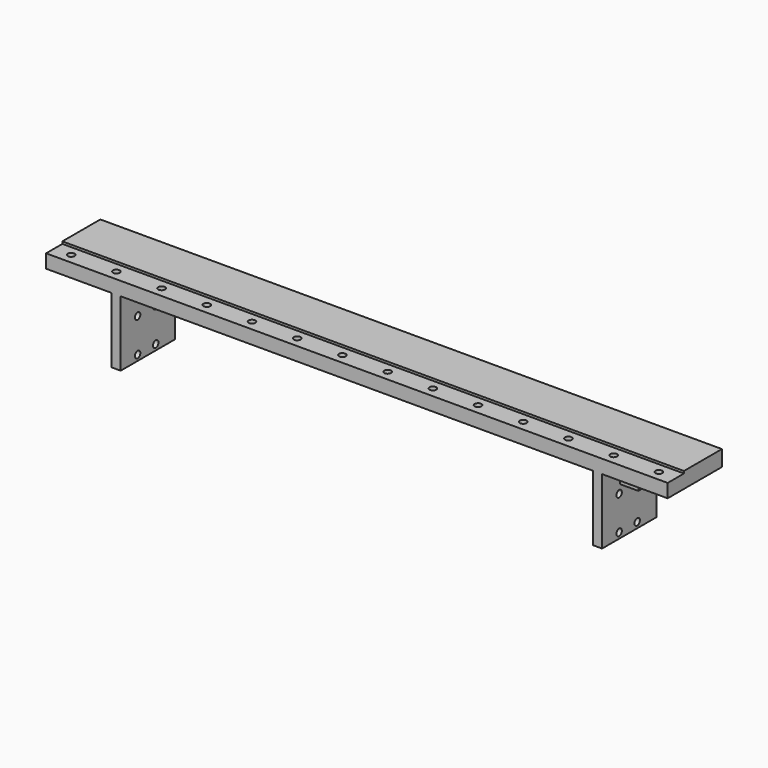
from build123d import *

# Parameters (mm, degrees)
SKETCH007_W            = 275
SKETCH007_H            = 30
PAD003_DEPTH           = 36
SKETCH008_W            = 9
SKETCH008_H            = 1
POCKET004_DEPTH        = 275
SKETCH009_R            = 1.5
POCKET005_DEPTH        = 6
LINEARPATTERN001_COUNT = 14
LINEARPATTERN001_PITCH = 20
SKETCH017_W            = 29
SKETCH017_H            = 29
SKETCH017_W_2          = 209
POCKET010_DEPTH        = 30
SKETCH018_R            = 1.5
POCKET011_DEPTH        = 275
SKETCH062_W            = 8
SKETCH062_H            = 8
SKETCH062_R            = 2.2
PAD020_DEPTH           = 5


with BuildPart() as part:
    # Sketch007 → Pad003 (new body)
    with BuildSketch(Plane.XY):
        with Locations((-137.5, 15)):
            Rectangle(SKETCH007_W, SKETCH007_H)
    extrude(amount=PAD003_DEPTH)

    # Sketch008 (on Face2 of Pad003) → Pocket004 (cut)
    with BuildSketch(Plane.YZ):
        with Locations((4.5, 35.5)):
            Rectangle(SKETCH008_W, SKETCH008_H)
    extrude(amount=-POCKET004_DEPTH, mode=Mode.SUBTRACT)

    # Sketch009 (on Face5 of Pocket004) → Pocket005 (cut)
    with BuildSketch(Plane.XY.offset(36)):
        with Locations((-7.5, 4.5)):
            Circle(SKETCH009_R)
    pocket005 = extrude(amount=-POCKET005_DEPTH, mode=Mode.SUBTRACT)

    # LinearPattern001: Pocket005 ×14
    with Locations(*[(-i * LINEARPATTERN001_PITCH, 0, 0) for i in range(1, LINEARPATTERN001_COUNT)]):
        add(pocket005, mode=Mode.SUBTRACT)

    # Sketch017 → Pocket010 (cut)
    with BuildSketch(Plane.XZ):
        with Locations((-14.5, 14.5)):
            Rectangle(SKETCH017_W, SKETCH017_H)
        with Locations((-260.5, 14.5)):
            Rectangle(SKETCH017_W, SKETCH017_H)
        with Locations((-137.5, 14.5)):
            Rectangle(SKETCH017_W_2, SKETCH017_H)
    extrude(amount=-POCKET010_DEPTH, mode=Mode.SUBTRACT)

    # Sketch018 → Pocket011 (cut)
    with BuildSketch(Plane.YZ):
        with Locations((9.4, 17.5)):
            Circle(SKETCH018_R)
        with Locations((19.4, 17.5)):
            Circle(SKETCH018_R)
        with Locations((9.4, 2.5)):
            Circle(SKETCH018_R)
        with Locations((19.4, 2.5)):
            Circle(SKETCH018_R)
    extrude(amount=-POCKET011_DEPTH, mode=Mode.SUBTRACT)

    # Sketch062 → Pad020 (join, symmetric)
    with BuildSketch(Plane.XZ.offset(-15)):
        with Locations((-250, 25)):
            Rectangle(SKETCH062_W, SKETCH062_H)
        with Locations((-250.5, 24.5)):
            Circle(SKETCH062_R, mode=Mode.SUBTRACT)
        with Locations((-25, 25)):
            Rectangle(SKETCH062_W, SKETCH062_H)
        with Locations((-24.5, 24.5)):
            Circle(SKETCH062_R, mode=Mode.SUBTRACT)
    extrude(amount=PAD020_DEPTH, both=True)


solid = part.part
